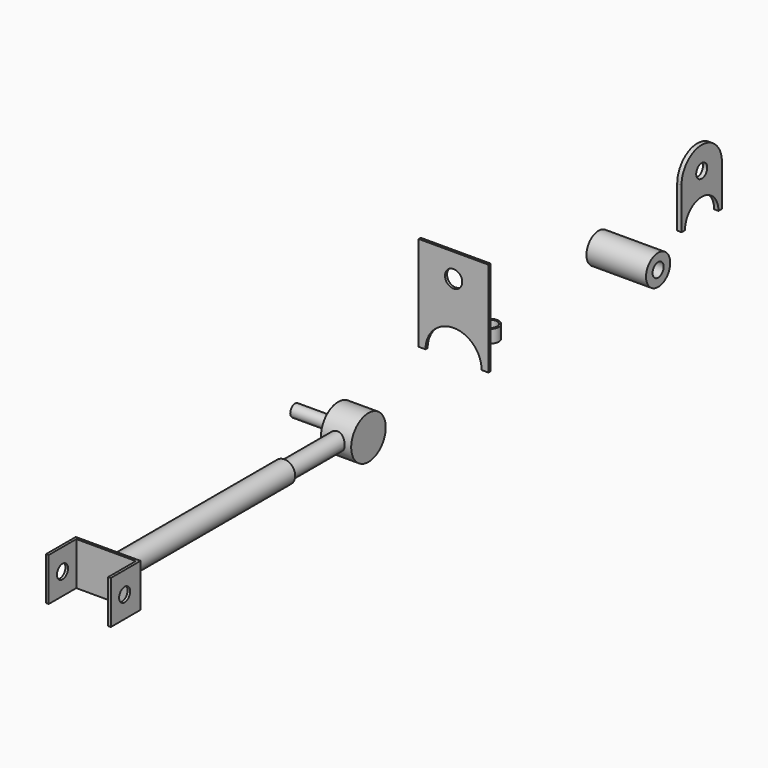
from build123d import *

# Parameters (mm, degrees)
F0_R      = 10
F1_DEPTH  = 3
F2_R      = 25
F3_DEPTH  = 35
F4_R      = 7
F5_DEPTH  = 50
F7_R      = 10
F8_DEPTH  = 100
F9_R      = 12.7
F10_DEPTH = 255
F12_DEPTH = 25
F13_R     = 8
F14_DEPTH = 82.4
F15_R     = 17.5
F15_R_2   = 8
F16_DEPTH = 34.5
F17_R     = 8
F18_DEPTH = 5


with BuildPart() as f1:
    # F0 (on Front) → F1 (new body)
    with BuildSketch(Plane.XZ):
        with BuildLine():
            ThreePointArc((-32.5, 0), (0, 32.5), (32.5, 0))
            Line((32.5, 0), (40.5, 0))
            Line((40.5, 0), (40.5, 110))
            Line((40.5, 110), (-40.5, 110))
            Line((-40.5, 110), (-40.5, 0))
            Line((-40.5, 0), (-32.5, 0))
        make_face()
        with Locations((0, 82.5)):
            Circle(F0_R, mode=Mode.SUBTRACT)
    extrude(amount=F1_DEPTH)


with BuildPart() as f3:
    # F2 (on Right) → F3 (new body)
    with BuildSketch(Plane.YZ):
        with Locations((-170, 0)):
            Circle(F2_R)
    extrude(amount=F3_DEPTH)

    # F4 (on face) → F5 (join)
    with BuildSketch(Plane(origin=(0, 0, 0), x_dir=(0, -1, 0), z_dir=(-1, 0, 0))):
        with Locations((170, 0)):
            Circle(F4_R)
    extrude(amount=F5_DEPTH)

    # F7 (on offset) → F8 (join)
    with BuildSketch(Plane.XZ.offset(170)):
        with Locations((17.5, 0)):
            Circle(F7_R)
    extrude(amount=F8_DEPTH)

    # F9 (on face) → F10 (join)
    with BuildSketch(Plane.XZ.offset(270)):
        with Locations((17.5, 0)):
            Circle(F9_R)
    extrude(amount=F10_DEPTH)

    # F11 (on Top) → F12 (join, symmetric)
    with BuildSketch(Plane.XY):
        Polygon((-17, -568), (-17, -528), (52, -528), (52, -568), (55, -568), (55, -525), (-20, -525), (-20, -568), align=None)
    extrude(amount=F12_DEPTH, both=True)

    # F13 (on face) → F14 (cut)
    with BuildSketch(Plane.YZ.offset(55)):
        with Locations((-548, 0)):
            Circle(F13_R)
    extrude(amount=-F14_DEPTH, mode=Mode.SUBTRACT)


with BuildPart() as f16:
    # F15 (on Right) → F16 (new body, symmetric)
    with BuildSketch(Plane.YZ):
        with Locations((250, 0)):
            Circle(F15_R)
        with Locations((250, 0)):
            Circle(F15_R_2, mode=Mode.SUBTRACT)
    extrude(amount=F16_DEPTH, both=True)


with BuildPart() as f18:
    # F17 (on Right) → F18 (new body)
    with BuildSketch(Plane.YZ):
        with BuildLine():
            ThreePointArc((325.75, 0), (350, 24.25), (374.25, 0))
            Line((374.25, 0), (379.25, 0))
            Line((379.25, 0), (379.25, 48))
            ThreePointArc((379.25, 48), (350, 77.25), (320.75, 48))
            Line((320.75, 48), (320.75, 0))
            Line((320.75, 0), (325.75, 0))
        make_face()
        with Locations((350, 50.75)):
            Circle(F17_R, mode=Mode.SUBTRACT)
    extrude(amount=F18_DEPTH)


with BuildPart() as f20:
    # F19 (on Right) → F20 (revolve)
    with BuildSketch(Plane.YZ):
        Polygon((60, 15), (58, 15), (57.25, 0), (60, 0), align=None)
    revolve(axis=Axis((0, 50, 43.373331), (0, 0, 1)))


solid = Compound([f1.part, f3.part, f16.part, f18.part, f20.part])
